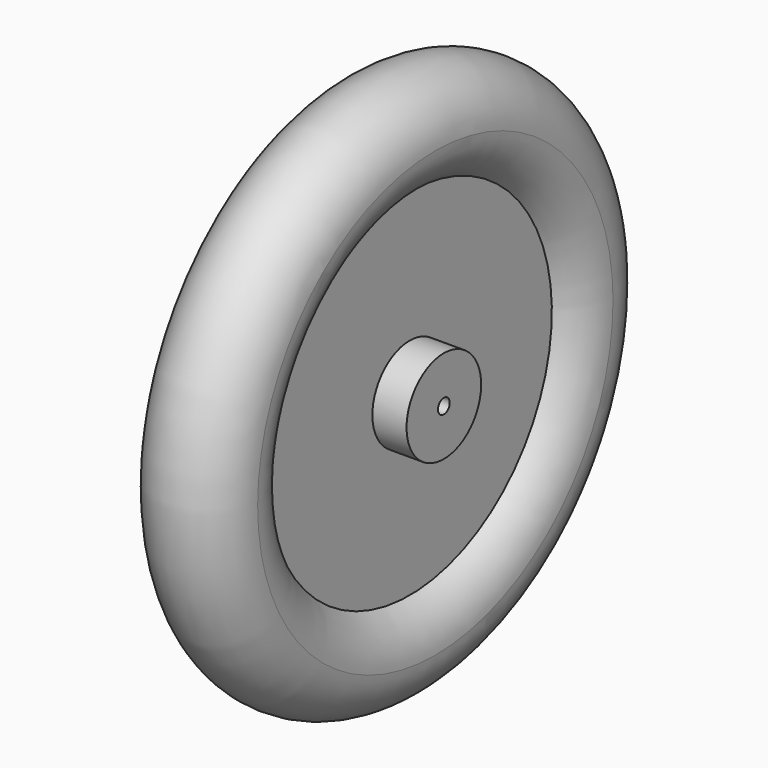
from build123d import *

# Parameters (mm, degrees)
F3_DEPTH = 25


with BuildPart() as f1:
    # F0 (on Front) → F1 (revolve)
    with BuildSketch(Plane.XZ):
        with BuildLine():
            Line((-70, 54.58075), (-70, 8.58075))
            Line((-70, 8.58075), (70, 8.58075))
            Line((70, 8.58075), (70, 54.58075))
            Line((70, 54.58075), (30, 54.58075))
            Line((30, 54.58075), (30, 208.038476))
            ThreePointArc((30, 208.038476), (0, 200), (-30, 208.038476))
            Line((-30, 208.038476), (-30, 54.58075))
            Line((-30, 54.58075), (-70, 54.58075))
        make_face()
        with BuildLine():
            ThreePointArc((60, 260), (-30, 311.961524), (-30, 208.038476))
            ThreePointArc((-30, 208.038476), (0, 200), (30, 208.038476))
            ThreePointArc((30, 208.038476), (51.961524, 230), (60, 260))
        make_face()
    revolve(axis=Axis((0, 0, 0), (1, 0, 0)))

    # F2 (on face) → F3 (join)
    with BuildSketch(Plane(origin=(-30, 0, 0), x_dir=(0, -1, 0), z_dir=(-1, 0, 0))):
        with BuildLine():
            ThreePointArc((-55.462766, 188.029161), (-61.774314, 182.493227), (-61.643278, 174.098882))
            Line((-61.643278, 174.098882), (-12.55207, 72.159939))
            ThreePointArc((-12.55207, 72.159939), (-8.665392, 67.910717), (-3.079813, 66.509481))
            ThreePointArc((-3.079813, 66.509481), (0, 66.58075), (3.079813, 66.509481))
            ThreePointArc((3.079813, 66.509481), (8.665392, 67.910717), (12.55207, 72.159939))
            Line((12.55207, 72.159939), (61.643278, 174.098882))
            ThreePointArc((61.643278, 174.098882), (61.774314, 182.493227), (55.462766, 188.029161))
            ThreePointArc((55.462766, 188.029161), (0, 196.038476), (-55.462766, 188.029161))
        make_face()
    extrude(amount=-F3_DEPTH)


solid = f1.part
